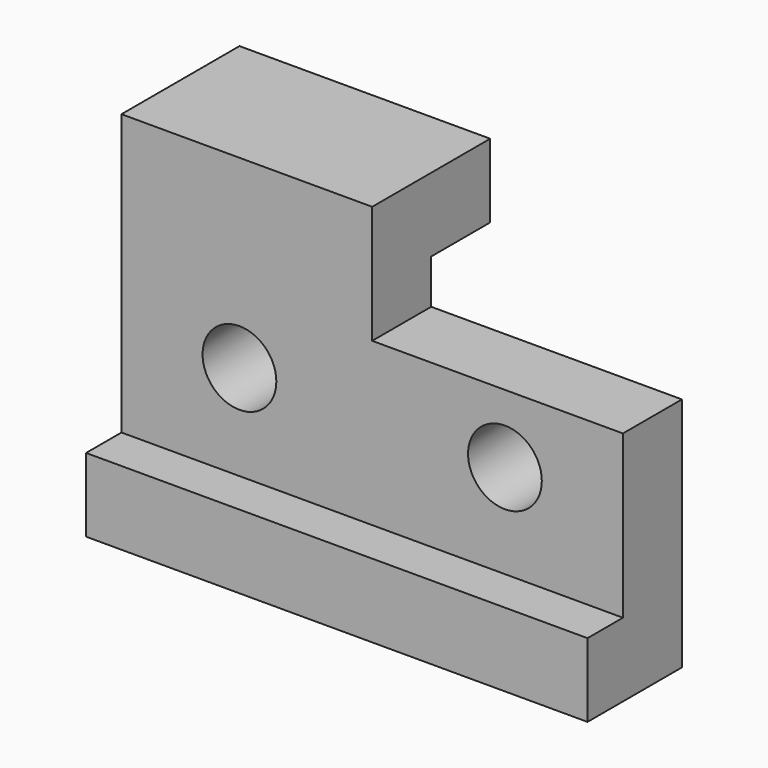
from build123d import *

# Parameters (mm, degrees)
F0_W      = 107.95
F0_H      = 76.2
F1_DEPTH  = 41.275
F2_W      = 107.95
F2_H      = 60.325
F3_DEPTH  = 9.525
F4_W      = 53.975
F4_H      = 25.4
F5_DEPTH  = 31.751
F6_W      = 15.875
F6_H      = 50.8
F7_DEPTH  = 107.951
F8_W      = 15.875
F8_H      = 9.525
F9_DEPTH  = 53.976
F10_R     = 7.9375
F11_DEPTH = 31.751


with BuildPart() as f1:
    # F0 (on Front) → F1 (new body)
    with BuildSketch(Plane.XZ):
        with Locations((-20.33008, -8.164287)):
            Rectangle(F0_W, F0_H)
    extrude(amount=F1_DEPTH)

    # F2 (on face) → F3 (cut)
    with BuildSketch(Plane.XZ.offset(41.275)):
        with Locations((-20.33008, -0.226787)):
            Rectangle(F2_W, F2_H)
    extrude(amount=-F3_DEPTH, mode=Mode.SUBTRACT)

    # F4 (on face) → F5 (cut, through all)
    with BuildSketch(Plane.XZ.offset(31.75)):
        with Locations((6.65742, 17.235713)):
            Rectangle(F4_W, F4_H)
    extrude(amount=-F5_DEPTH, mode=Mode.SUBTRACT)

    # F6 (on face) → F7 (cut, through all)
    with BuildSketch(Plane.YZ.offset(33.64492)):
        with Locations((-7.9375, -20.864287)):
            Rectangle(F6_W, F6_H)
    extrude(amount=-F7_DEPTH, mode=Mode.SUBTRACT)

    # F8 (on face) → F9 (cut, through all)
    with BuildSketch(Plane.YZ.offset(-20.33008)):
        with Locations((-7.9375, 9.298213)):
            Rectangle(F8_W, F8_H)
    extrude(amount=-F9_DEPTH, mode=Mode.SUBTRACT)

    # F10 (on face) → F11 (cut, through all)
    with BuildSketch(Plane.XZ.offset(31.75)):
        with Locations((-48.90508, -9.899196)):
            Circle(F10_R)
        with Locations((8.24492, -10.156629)):
            Circle(F10_R)
    extrude(amount=-F11_DEPTH, mode=Mode.SUBTRACT)


solid = f1.part
